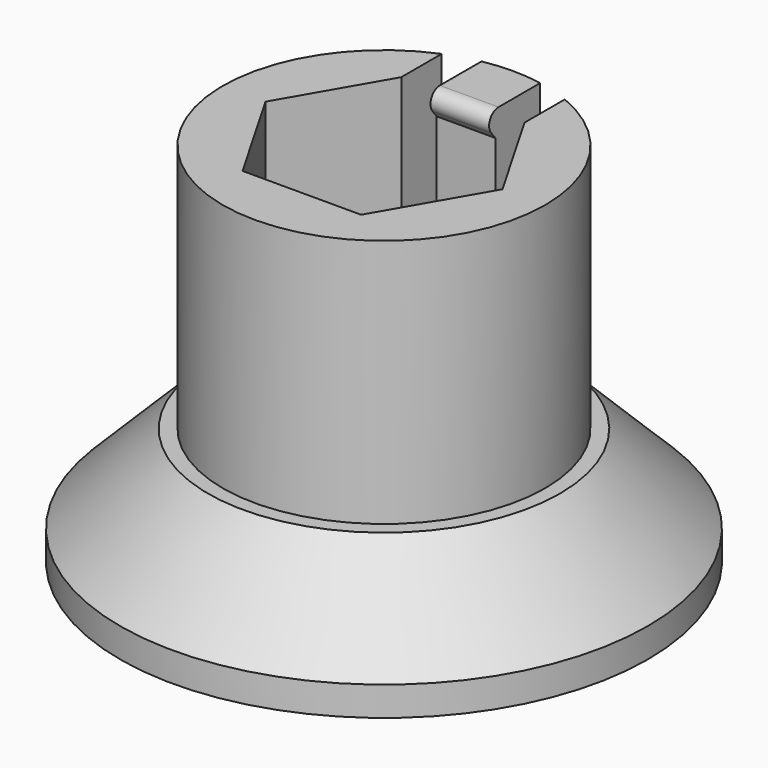
from build123d import *

# Parameters (mm, degrees)
SKETCH_R          = 9
PAD_DEPTH         = 4
SKETCH001_R       = 5.5
PAD001_DEPTH      = 8.5
POCKET_DEPTH      = 9
SKETCH003_W       = 1.1
SKETCH003_H       = 4.61522
POCKET001_DEPTH   = 5.5
PAD002_DEPTH      = 1
PAD002_DEPTH_BACK = 1
FILLET_R          = 0.4
CHAMFER_SIZE      = 3


with BuildPart() as part:
    # Sketch (on XY_Plane of Origin) → Pad (new body)
    with BuildSketch(Plane.XY):
        Circle(SKETCH_R)
    extrude(amount=PAD_DEPTH)

    # Sketch001 (on Face3 of Pad) → Pad001 (join)
    with BuildSketch(Plane.XY.offset(4)):
        Circle(SKETCH001_R)
    extrude(amount=PAD001_DEPTH)

    # Sketch002 (on Face5 of Pad001) → Pocket (cut)
    with BuildSketch(Plane.XY.offset(12.5)):
        Polygon((2.020726, 3.5), (-2.020726, 3.5), (-4.041452, 0), (-2.020726, -3.5), (2.020726, -3.5), (4.041452, 0), align=None)
    extrude(amount=-POCKET_DEPTH, mode=Mode.SUBTRACT)

    # Sketch003 (on Face5 of Pocket) → Pocket001 (cut)
    with BuildSketch(Plane.XY.offset(12.5)):
        with Locations((-1.55, 4.391028)):
            Rectangle(SKETCH003_W, SKETCH003_H)
    pocket001 = extrude(amount=-POCKET001_DEPTH, mode=Mode.SUBTRACT)

    # Mirrored: Pocket001 across Sketch003 V_Axis
    add(pocket001.mirror(Plane(origin=(0, 0, 12.5), x_dir=(0, 0, 1), z_dir=(1, 0, 0))), mode=Mode.SUBTRACT)

    # Sketch004 (on YZ_Plane of Origin) → Pad002 (join, two sides)
    with BuildSketch(Plane.YZ) as pad002_sk:
        Polygon((3.6, 12.5), (3.6, 11.5), (2.8, 12.5), align=None)
    extrude(amount=PAD002_DEPTH)
    extrude(pad002_sk.sketch, amount=-PAD002_DEPTH_BACK)

    # Fillet
    fillet_edges = [part.edges().sort_by_distance(p)[0] for p in [
        (0, 2.8, 12.5),
    ]]
    fillet(fillet_edges, radius=FILLET_R)

    # Chamfer
    chamfer_edges = [part.edges().sort_by_distance(p)[0] for p in [
        (-9, 0, 4),
    ]]
    chamfer(chamfer_edges, length=CHAMFER_SIZE)


solid = part.part
